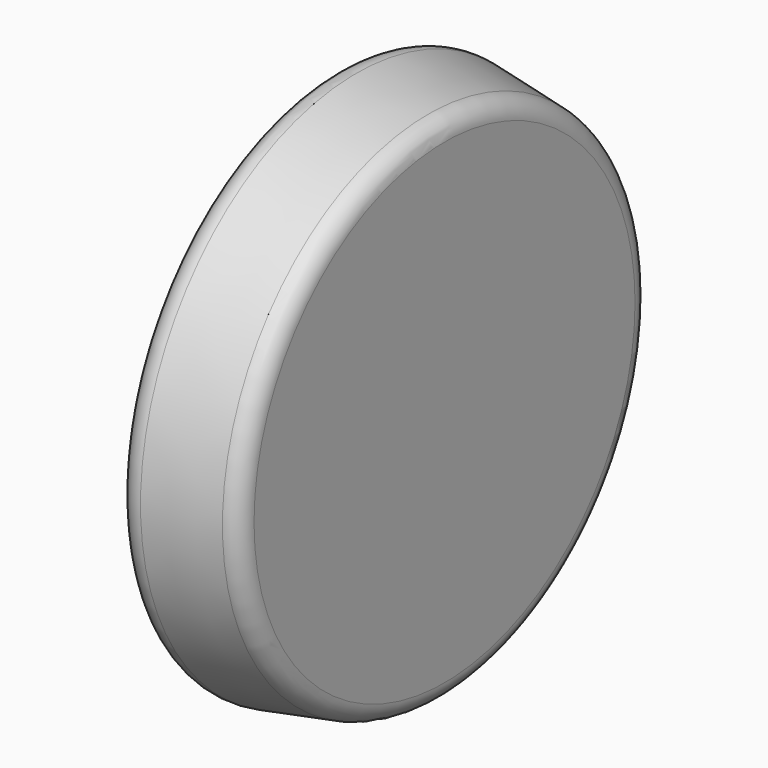
from build123d import *

# Parameters (mm, degrees)
F1_R     = 266.7
F2_DEPTH = 107.95
F2_TAPER = 10
F3_R     = 19.05


with BuildPart() as f2:
    # F1 (on Right) → F2 (new body)
    with BuildSketch(Plane.YZ):
        Circle(F1_R)
    extrude(amount=F2_DEPTH, taper=F2_TAPER)

    # F3
    f3_edges = [f2.edges().sort_by_distance(p)[0] for p in [
        (107.95, -247.665502, 0),
        (0, -266.7, 0),
    ]]
    fillet(f3_edges, radius=F3_R)


solid = f2.part
